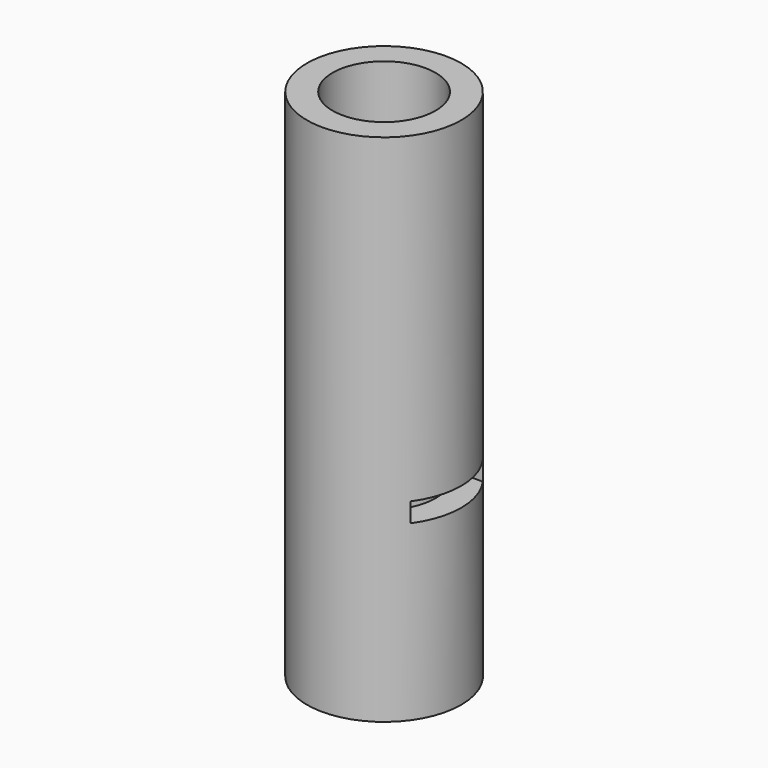
from build123d import *

# Parameters (mm, degrees)
F0_R     = 15.24
F0_R_2   = 10.16
F1_DEPTH = 101.6
F3_DEPTH = 38.1


with BuildPart() as f1:
    # F0 (on Top) → F1 (new body)
    with BuildSketch(Plane.XY):
        Circle(F0_R)
        Circle(F0_R_2, mode=Mode.SUBTRACT)
    extrude(amount=F1_DEPTH)


with BuildPart() as f3:
    # F2 (on Right) → F3 (new body, symmetric)
    with BuildSketch(Plane.YZ):
        Polygon((-8.89, 34.2392), (0, 34.2392), (8.89, 34.2392), (8.89, 38.0492), (-8.89, 38.0492), align=None)
    extrude(amount=F3_DEPTH, both=True)


with BuildPart() as f1_1:
    add(f1.part)

    # F4: cut F3
    add(f3.part, mode=Mode.SUBTRACT)


solid = f1_1.part
